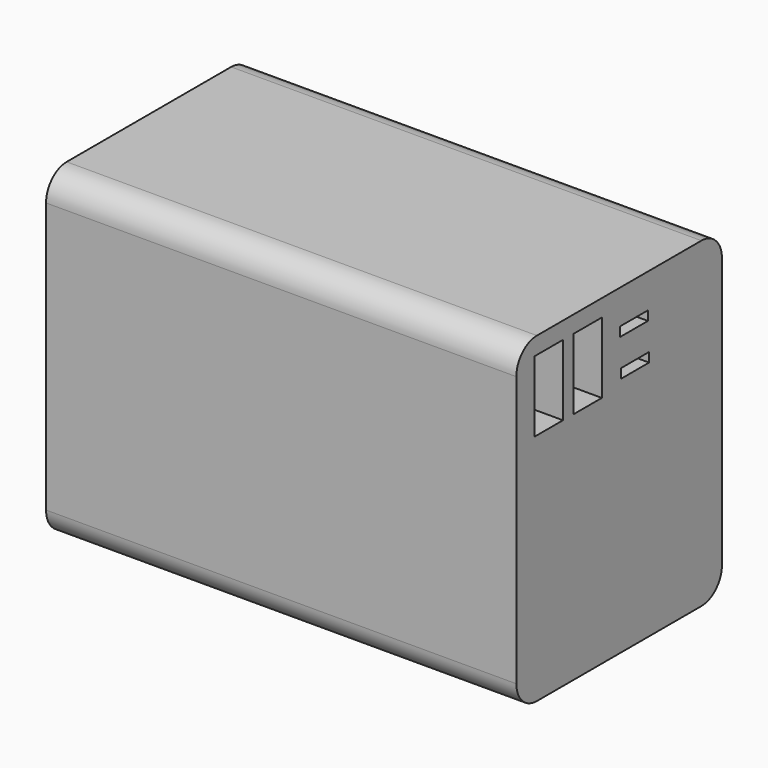
from build123d import *

# Parameters (mm, degrees)
F0_W      = 92.96126
F0_H      = 63.60507
F1_DEPTH  = 50.8
F4_R      = 5.08
F5_R      = 5.08
F6_R      = 5.08
F7_W      = 7
F7_H      = 14
F8_DEPTH  = 16
F9_W      = 7
F9_H      = 14
F10_DEPTH = 16
F11_W     = 6.9
F11_H     = 1.85
F12_DEPTH = 16


with BuildPart() as f1:
    # F0 (on Front) → F1 (new body)
    with BuildSketch(Plane.XZ):
        Rectangle(F0_W, F0_H)
    extrude(amount=F1_DEPTH)

    # F4
    f4_edges = [f1.edges().sort_by_distance(p)[0] for p in [
        (0, -50.8, 31.802535),
    ]]
    fillet(f4_edges, radius=F4_R)

    # F5
    f5_edges = [f1.edges().sort_by_distance(p)[0] for p in [
        (0, 0, 31.802535),
    ]]
    fillet(f5_edges, radius=F5_R)

    # F6
    f6_edges = [f1.edges().sort_by_distance(p)[0] for p in [
        (0, -50.8, -31.802535),
        (0, 0, -31.802535),
    ]]
    fillet(f6_edges, radius=F6_R)

    # F7 (on face) → F8 (cut)
    with BuildSketch(Plane.YZ.offset(46.48063)):
        with Locations((-42.770251, 21.441529)):
            Rectangle(F7_W, F7_H)
    extrude(amount=-F8_DEPTH, mode=Mode.SUBTRACT)

    # F9 (on face) → F10 (cut)
    with BuildSketch(Plane.YZ.offset(46.48063)):
        with Locations((-33.1692, 21.429915)):
            Rectangle(F9_W, F9_H)
    extrude(amount=-F10_DEPTH, mode=Mode.SUBTRACT)

    # F11 (on face) → F12 (cut)
    with BuildSketch(Plane.YZ.offset(46.48063)):
        with Locations((-21.729334, 24.124714)):
            Rectangle(F11_W, F11_H)
        with Locations((-21.445199, 16.760846)):
            Rectangle(F11_W, F11_H)
    extrude(amount=-F12_DEPTH, mode=Mode.SUBTRACT)


solid = f1.part
